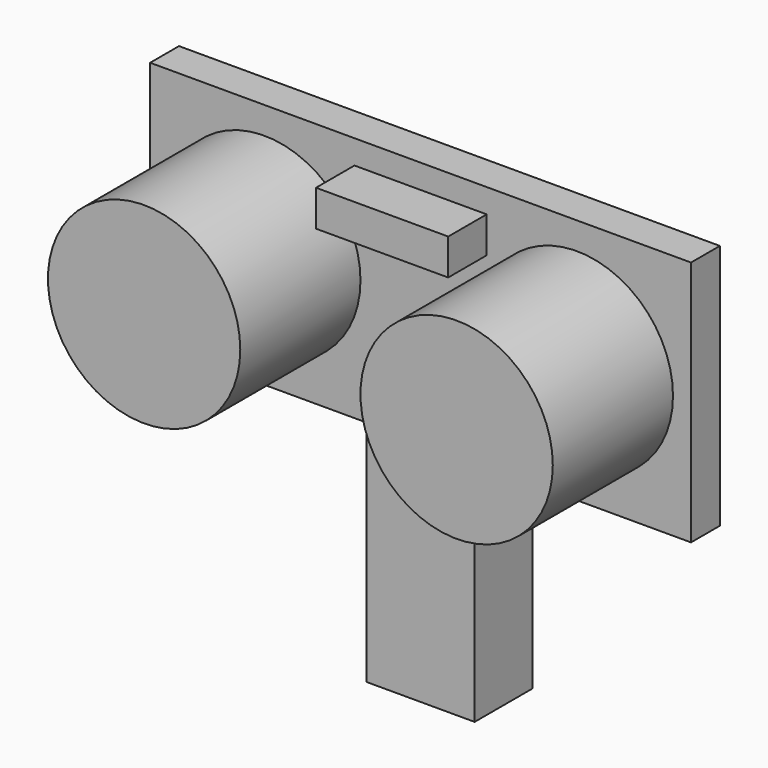
from build123d import *

# Parameters (mm, degrees)
F0_W     = 45
F0_H     = 20.5
F1_DEPTH = 3
F2_R     = 8
F3_DEPTH = 12.5
F4_W     = 11
F4_H     = 3
F5_DEPTH = 4
F6_W     = 9
F6_H     = 19
F7_DEPTH = 6


with BuildPart() as f1:
    # F0 (on Front) → F1 (new body)
    with BuildSketch(Plane.XZ):
        Rectangle(F0_W, F0_H)
    extrude(amount=-F1_DEPTH)

    # F2 (on Front) → F3 (join)
    with BuildSketch(Plane.XZ):
        with Locations((-13, 0)):
            Circle(F2_R)
        with Locations((13, 0)):
            Circle(F2_R)
    extrude(amount=F3_DEPTH)

    # F4 (on Front) → F5 (join)
    with BuildSketch(Plane.XZ):
        with Locations((0, 6.75)):
            Rectangle(F4_W, F4_H)
    extrude(amount=F5_DEPTH)

    # F6 (on Front) → F7 (join)
    with BuildSketch(Plane.XZ):
        with Locations((0, -19.75)):
            Rectangle(F6_W, F6_H)
    extrude(amount=-F7_DEPTH)


solid = f1.part
